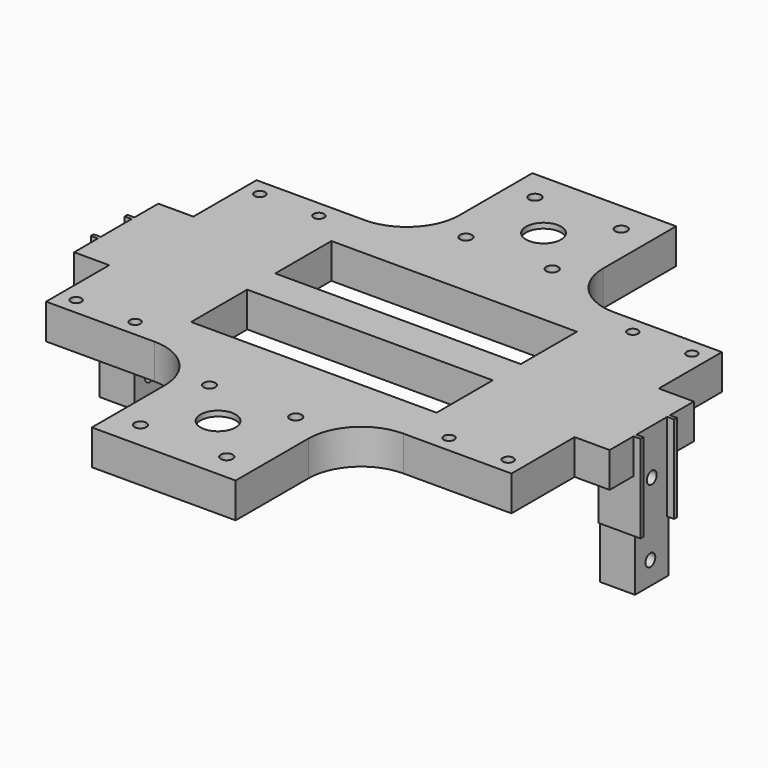
from build123d import *

# Parameters (mm, degrees)
CYLINDER023_R           = 11
CYLINDER023_DEPTH       = 2.5
CYLINDER022_R           = 11
CYLINDER022_DEPTH       = 2.5
BOX003_W                = 70
BOX003_H                = 20
BOX003_DEPTH            = 10
BOX002_W                = 70
BOX002_H                = 20
BOX002_DEPTH            = 10
BOX001_W                = 80
BOX001_H                = 75
BOX001_DEPTH            = 10
CYLINDER006_R           = 4.4
CYLINDER006_DEPTH       = 9.5
CYLINDER006_ROLL_ANGLE  = 90
CYLINDER005_R           = 8.4
CYLINDER005_DEPTH       = 25.35
CYLINDER005_ROLL_ANGLE  = 90
CYLINDER004_R           = 8.4
CYLINDER004_DEPTH       = 25.35
CYLINDER004_ROLL_ANGLE  = 90
CYLINDER021_R           = 1.5
CYLINDER021_DEPTH       = 10
CYLINDER003_R           = 1.5
CYLINDER003_DEPTH       = 10
CYLINDER002_R           = 1.5
CYLINDER002_DEPTH       = 10
CYLINDER_R              = 1.5
CYLINDER_DEPTH          = 10
BOX_W                   = 26.35
BOX_H                   = 75
BOX_DEPTH               = 10
ARRAY_X_COUNT           = 2
ARRAY_X_PITCH           = 106.35
BOX012_W                = 36
BOX012_H                = 36
BOX012_DEPTH            = 6
CYLINDER018_R           = 5
CYLINDER018_DEPTH       = 10
CYLINDER017_R           = 1.7
CYLINDER017_DEPTH       = 10
CYLINDER016_R           = 1.7
CYLINDER016_DEPTH       = 10
CYLINDER014_R           = 1.7
CYLINDER014_DEPTH       = 10
CYLINDER015_R           = 1.7
CYLINDER015_DEPTH       = 10
BOX011_W                = 41
BOX011_H                = 41
BOX011_DEPTH            = 10
ARRAY002_Y_COUNT        = 2
ARRAY002_Y_PITCH        = 116
BOX018_W                = 12
BOX018_H                = 1
BOX018_DEPTH            = 25
BOX017_W                = 12
BOX017_H                = 1
BOX017_DEPTH            = 25
BOX014_W                = 12
BOX014_H                = 1
BOX014_DEPTH            = 25
CYLINDER019_R           = 1.75
CYLINDER019_DEPTH       = 10
CYLINDER019_PITCH_ANGLE = 90
CYLINDER020_R           = 1.75
CYLINDER020_DEPTH       = 10
CYLINDER020_PITCH_ANGLE = 90
BOX016_W                = 10
BOX016_H                = 12
BOX016_DEPTH            = 30
ARRAY003_X_COUNT        = 2
ARRAY003_X_PITCH        = 142.7
BOX015_W                = 12
BOX015_H                = 1
BOX015_DEPTH            = 25
BOX007_W                = 10
BOX007_H                = 30
BOX007_DEPTH            = 10
BOX006_W                = 10
BOX006_H                = 30
BOX006_DEPTH            = 10
FILLET_R                = 15
FILLET001_R             = 15
FILLET002_R             = 15
FILLET003_R             = 15


with BuildPart() as cilindro023:
    # Cylinder023 → Cylinder023 (new body)
    with BuildSketch(Plane(origin=(66.35, 95, 6), x_dir=(1, 0, 0), z_dir=(0, 0, 1))):
        Circle(CYLINDER023_R)
    extrude(amount=CYLINDER023_DEPTH)


with BuildPart() as cilindro022:
    # Cylinder022 → Cylinder022 (new body)
    with BuildSketch(Plane(origin=(66.35, -21, 6), x_dir=(1, 0, 0), z_dir=(0, 0, 1))):
        Circle(CYLINDER022_R)
    extrude(amount=CYLINDER022_DEPTH)


with BuildPart() as obj1:
    # Box003 → Box003 (new body)
    with BuildSketch(Plane(origin=(31.35, 42.5, 0), x_dir=(1, 0, 0), z_dir=(0, 0, 1))):
        with Locations((35, 10)):
            Rectangle(BOX003_W, BOX003_H)
    extrude(amount=BOX003_DEPTH)


with BuildPart() as obj2:
    # Box002 → Box002 (new body)
    with BuildSketch(Plane(origin=(31.35, 12.5, 0), x_dir=(1, 0, 0), z_dir=(0, 0, 1))):
        with Locations((35, 10)):
            Rectangle(BOX002_W, BOX002_H)
    extrude(amount=BOX002_DEPTH)


with BuildPart() as centro1:
    # Box001 → Box001 (new body)
    with BuildSketch(Plane(origin=(26.35, 0, 0), x_dir=(1, 0, 0), z_dir=(0, 0, 1))):
        with Locations((40, 37.5)):
            Rectangle(BOX001_W, BOX001_H)
    extrude(amount=BOX001_DEPTH)

    # Cut007: cut obj2
    add(obj2.part, mode=Mode.SUBTRACT)

    # Cut008: cut obj1
    add(obj1.part, mode=Mode.SUBTRACT)


with BuildPart() as cilindro006:
    # Cylinder006 → Cylinder006 (new body)
    with BuildSketch(Plane.XY):
        Circle(CYLINDER006_R)
    extrude(amount=CYLINDER006_DEPTH)


with BuildPart() as cilindro006_1:
    # Cylinder006 roll: moved
    add(cilindro006.part.rotate(Axis((0, 0, 0), (1, 0, 0)), CYLINDER006_ROLL_ANGLE))


with BuildPart() as cilindro006_2:
    # Cylinder006 placement: moved
    add(cilindro006_1.part.moved(Location((13.175, 39.5, 0))))


with BuildPart() as cilindro005:
    # Cylinder005 → Cylinder005 (new body)
    with BuildSketch(Plane.XY):
        Circle(CYLINDER005_R)
    extrude(amount=CYLINDER005_DEPTH)


with BuildPart() as cilindro005_1:
    # Cylinder005 roll: moved
    add(cilindro005.part.rotate(Axis((0, 0, 0), (1, 0, 0)), CYLINDER005_ROLL_ANGLE))


with BuildPart() as cilindro005_2:
    # Cylinder005 placement: moved
    add(cilindro005_1.part.moved(Location((13.175, 64.5, 0))))


with BuildPart() as fusion001:
    # Cylinder004 → Cylinder004 (new body)
    with BuildSketch(Plane.XY):
        Circle(CYLINDER004_R)
    extrude(amount=CYLINDER004_DEPTH)


with BuildPart() as fusion001_1:
    # Cylinder004 roll: moved
    add(fusion001.part.rotate(Axis((0, 0, 0), (1, 0, 0)), CYLINDER004_ROLL_ANGLE))


with BuildPart() as fusion001_2:
    # Cylinder004 placement: moved
    add(fusion001_1.part.moved(Location((13.175, 30, 0))))

    # Fusion: union Cilindro005
    add(cilindro005_2.part)

    # Fusion001: union Cilindro006
    add(cilindro006_2.part)


with BuildPart() as fusion001_3:
    # Fusion001 placement: moved
    add(fusion001_2.part.moved(Location((0, 2.75, 0))))


with BuildPart() as cilindro021:
    # Cylinder021 → Cylinder021 (new body)
    with BuildSketch(Plane(origin=(21.6, 70.25, 0), x_dir=(1, 0, 0), z_dir=(0, 0, 1))):
        Circle(CYLINDER021_R)
    extrude(amount=CYLINDER021_DEPTH)


with BuildPart() as cilindro003:
    # Cylinder003 → Cylinder003 (new body)
    with BuildSketch(Plane(origin=(21.6, 4.75, 0), x_dir=(1, 0, 0), z_dir=(0, 0, 1))):
        Circle(CYLINDER003_R)
    extrude(amount=CYLINDER003_DEPTH)


with BuildPart() as cilindro002:
    # Cylinder002 → Cylinder002 (new body)
    with BuildSketch(Plane(origin=(4.75, 70.25, 0), x_dir=(1, 0, 0), z_dir=(0, 0, 1))):
        Circle(CYLINDER002_R)
    extrude(amount=CYLINDER002_DEPTH)


with BuildPart() as cilindro:
    # Cylinder → Cylinder (new body)
    with BuildSketch(Plane(origin=(4.75, 4.75, 0), x_dir=(1, 0, 0), z_dir=(0, 0, 1))):
        Circle(CYLINDER_R)
    extrude(amount=CYLINDER_DEPTH)


with BuildPart() as fusion011:
    # Box → Box (new body)
    with BuildSketch(Plane.XY):
        with Locations((13.175, 37.5)):
            Rectangle(BOX_W, BOX_H)
    extrude(amount=BOX_DEPTH)

    # Cut: cut Cilindro
    add(cilindro.part, mode=Mode.SUBTRACT)

    # Cut001: cut Cilindro002
    add(cilindro002.part, mode=Mode.SUBTRACT)

    # Cut026: cut Cilindro003
    add(cilindro003.part, mode=Mode.SUBTRACT)

    # Cut027: cut Cilindro021
    add(cilindro021.part, mode=Mode.SUBTRACT)

    # Cut028: cut Fusion001
    add(fusion001_3.part, mode=Mode.SUBTRACT)

    # Array X: Fusion011 ×2


with BuildPart() as fusion011_1:
    add(fusion011.part)
    with Locations(*[(i * ARRAY_X_PITCH, 0, 0) for i in range(1, ARRAY_X_COUNT)]):
        add(fusion011.part)

    # Fusion011: union Centro1
    add(centro1.part)


with BuildPart() as cubo005:
    # Box012 → Box012 (new body)
    with BuildSketch(Plane(origin=(2.5, 2, 0), x_dir=(1, 0, 0), z_dir=(0, 0, 1))):
        with Locations((18, 18)):
            Rectangle(BOX012_W, BOX012_H)
    extrude(amount=BOX012_DEPTH)


with BuildPart() as cilindro018:
    # Cylinder018 → Cylinder018 (new body)
    with BuildSketch(Plane(origin=(20, 20, 0), x_dir=(1, 0, 0), z_dir=(0, 0, 1))):
        Circle(CYLINDER018_R)
    extrude(amount=CYLINDER018_DEPTH)


with BuildPart() as cilindro017:
    # Cylinder017 → Cylinder017 (new body)
    with BuildSketch(Plane(origin=(32.3, 32.3, 0), x_dir=(1, 0, 0), z_dir=(0, 0, 1))):
        Circle(CYLINDER017_R)
    extrude(amount=CYLINDER017_DEPTH)


with BuildPart() as cilindro016:
    # Cylinder016 → Cylinder016 (new body)
    with BuildSketch(Plane(origin=(32.3, 7.7, 0), x_dir=(1, 0, 0), z_dir=(0, 0, 1))):
        Circle(CYLINDER016_R)
    extrude(amount=CYLINDER016_DEPTH)


with BuildPart() as cilindro014:
    # Cylinder014 → Cylinder014 (new body)
    with BuildSketch(Plane(origin=(7.7, 7.7, 0), x_dir=(1, 0, 0), z_dir=(0, 0, 1))):
        Circle(CYLINDER014_R)
    extrude(amount=CYLINDER014_DEPTH)


with BuildPart() as cilindro015:
    # Cylinder015 → Cylinder015 (new body)
    with BuildSketch(Plane(origin=(7.7, 32.3, 0), x_dir=(1, 0, 0), z_dir=(0, 0, 1))):
        Circle(CYLINDER015_R)
    extrude(amount=CYLINDER015_DEPTH)


with BuildPart() as fusion012:
    # Box011 → Box011 (new body)
    with BuildSketch(Plane.XY):
        with Locations((20.5, 20.5)):
            Rectangle(BOX011_W, BOX011_H)
    extrude(amount=BOX011_DEPTH)

    # Cut018: cut Cilindro015
    add(cilindro015.part, mode=Mode.SUBTRACT)

    # Cut019: cut Cilindro014
    add(cilindro014.part, mode=Mode.SUBTRACT)

    # Cut020: cut Cilindro016
    add(cilindro016.part, mode=Mode.SUBTRACT)

    # Cut021: cut Cilindro017
    add(cilindro017.part, mode=Mode.SUBTRACT)

    # Cut022: cut Cilindro018
    add(cilindro018.part, mode=Mode.SUBTRACT)

    # Cut023: cut Cubo005
    add(cubo005.part, mode=Mode.SUBTRACT)


with BuildPart() as fusion012_1:
    # Cut023 placement: moved
    add(fusion012.part.moved(Location((43.35, -46, 0))))

    # Array002 Y: Fusion012 ×2


with BuildPart() as fusion012_2:
    add(fusion012_1.part)
    with Locations(*[(0, i * ARRAY002_Y_PITCH, 0) for i in range(1, ARRAY002_Y_COUNT)]):
        add(fusion012_1.part)


with BuildPart() as fusion012_3:
    # Array002 placement: moved
    add(fusion012_2.part.moved(Location((2.5, 5, 0))))

    # Fusion012: union Fusion011
    add(fusion011_1.part)


with BuildPart() as cubo011:
    # Box018 → Box018 (new body)
    with BuildSketch(Plane(origin=(-12, 43, -15), x_dir=(1, 0, 0), z_dir=(0, 0, 1))):
        with Locations((6, 0.5)):
            Rectangle(BOX018_W, BOX018_H)
    extrude(amount=BOX018_DEPTH)


with BuildPart() as cubo010:
    # Box017 → Box017 (new body)
    with BuildSketch(Plane(origin=(-12, 31, -15), x_dir=(1, 0, 0), z_dir=(0, 0, 1))):
        with Locations((6, 0.5)):
            Rectangle(BOX017_W, BOX017_H)
    extrude(amount=BOX017_DEPTH)


with BuildPart() as cubo007:
    # Box014 → Box014 (new body)
    with BuildSketch(Plane(origin=(132.7, 31, -15), x_dir=(1, 0, 0), z_dir=(0, 0, 1))):
        with Locations((6, 0.5)):
            Rectangle(BOX014_W, BOX014_H)
    extrude(amount=BOX014_DEPTH)


with BuildPart() as cilindro019:
    # Cylinder019 → Cylinder019 (new body)
    with BuildSketch(Plane.XY):
        Circle(CYLINDER019_R)
    extrude(amount=CYLINDER019_DEPTH)


with BuildPart() as cilindro019_1:
    # Cylinder019 pitch: moved
    add(cilindro019.part.rotate(Axis((0, 0, 0), (0, 1, 0)), CYLINDER019_PITCH_ANGLE))


with BuildPart() as cilindro019_2:
    # Cylinder019 placement: moved
    add(cilindro019_1.part.moved(Location((-10, 37.5, -3))))


with BuildPart() as cilindro020:
    # Cylinder020 → Cylinder020 (new body)
    with BuildSketch(Plane.XY):
        Circle(CYLINDER020_R)
    extrude(amount=CYLINDER020_DEPTH)


with BuildPart() as cilindro020_1:
    # Cylinder020 pitch: moved
    add(cilindro020.part.rotate(Axis((0, 0, 0), (0, 1, 0)), CYLINDER020_PITCH_ANGLE))


with BuildPart() as cilindro020_2:
    # Cylinder020 placement: moved
    add(cilindro020_1.part.moved(Location((-10, 37, -23.5))))


with BuildPart() as array003:
    # Box016 → Box016 (new body)
    with BuildSketch(Plane(origin=(-10, 31.5, -30), x_dir=(1, 0, 0), z_dir=(0, 0, 1))):
        with Locations((5, 6)):
            Rectangle(BOX016_W, BOX016_H)
    extrude(amount=BOX016_DEPTH)

    # Cut024: cut Cilindro020
    add(cilindro020_2.part, mode=Mode.SUBTRACT)

    # Cut025: cut Cilindro019
    add(cilindro019_2.part, mode=Mode.SUBTRACT)

    # Array003 X: Array003 ×2


with BuildPart() as array003_1:
    add(array003.part)
    with Locations(*[(i * ARRAY003_X_PITCH, 0, 0) for i in range(1, ARRAY003_X_COUNT)]):
        add(array003.part)


with BuildPart() as fusion013:
    # Box015 → Box015 (new body)
    with BuildSketch(Plane(origin=(132.7, 43, -15), x_dir=(1, 0, 0), z_dir=(0, 0, 1))):
        with Locations((6, 0.5)):
            Rectangle(BOX015_W, BOX015_H)
    extrude(amount=BOX015_DEPTH)

    # Fusion009: union Cubo007, Array003
    add(cubo007.part)
    add(array003_1.part)

    # Fusion010: union Cubo011, Cubo010
    add(cubo011.part)
    add(cubo010.part)

    # Fusion013: union Fusion012
    add(fusion012_3.part)


with BuildPart() as fusion014:
    # Box007 → Box007 (new body)
    with BuildSketch(Plane(origin=(132.7, 22.5, 0), x_dir=(1, 0, 0), z_dir=(0, 0, 1))):
        with Locations((5, 15)):
            Rectangle(BOX007_W, BOX007_H)
    extrude(amount=BOX007_DEPTH)

    # Fusion014: union Fusion013
    add(fusion013.part)


with BuildPart() as cut030:
    # Box006 → Box006 (new body)
    with BuildSketch(Plane(origin=(-10, 22.5, 0), x_dir=(1, 0, 0), z_dir=(0, 0, 1))):
        with Locations((5, 15)):
            Rectangle(BOX006_W, BOX006_H)
    extrude(amount=BOX006_DEPTH)

    # Fusion015: union Fusion014
    add(fusion014.part)

    # Fillet
    fillet_edges = [cut030.edges().sort_by_distance(p)[0] for p in [
        (86.85, 0, 5),
    ]]
    fillet(fillet_edges, radius=FILLET_R)

    # Fillet001
    fillet001_edges = [cut030.edges().sort_by_distance(p)[0] for p in [
        (45.85, 0, 5),
    ]]
    fillet(fillet001_edges, radius=FILLET001_R)

    # Fillet002
    fillet002_edges = [cut030.edges().sort_by_distance(p)[0] for p in [
        (86.85, 75, 5),
    ]]
    fillet(fillet002_edges, radius=FILLET002_R)

    # Fillet003
    fillet003_edges = [cut030.edges().sort_by_distance(p)[0] for p in [
        (45.85, 75, 5),
    ]]
    fillet(fillet003_edges, radius=FILLET003_R)

    # Cut029: cut Cilindro022
    add(cilindro022.part, mode=Mode.SUBTRACT)

    # Cut030: cut Cilindro023
    add(cilindro023.part, mode=Mode.SUBTRACT)


solid = cut030.part
